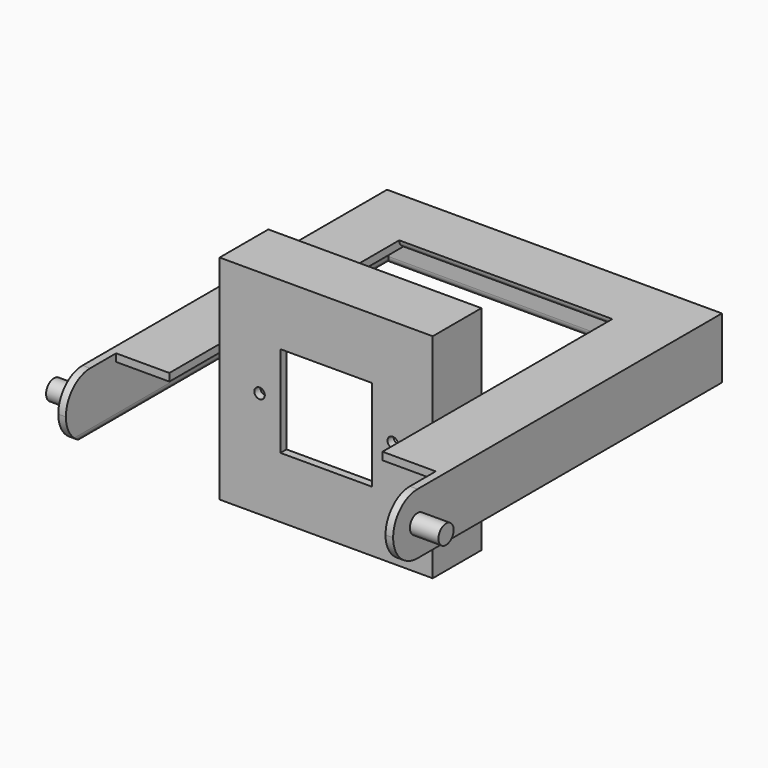
from build123d import *

# Parameters (mm, degrees)
PAD_DEPTH         = 112
PAD001_DEPTH      = 112
SKETCH002_R       = 2.75
SKETCH002_W       = 48
SKETCH002_H       = 48
POCKET_DEPTH      = 32.001
PAD002_DEPTH      = 66
PAD002_DEPTH_BACK = 150
SKETCH004_W       = 28
SKETCH004_H       = 33
POCKET001_DEPTH   = 72.001
POCKET002_DEPTH   = 176.001
POCKET003_DEPTH   = 176.001
SKETCH007_R       = 5
PAD003_DEPTH      = 15
SKETCH008_R       = 5.25
PAD004_DEPTH      = 15
PAD005_DEPTH      = 176


with BuildPart() as part:
    # Sketch → Pad (new body)
    with BuildSketch(Plane.XY):
        with BuildLine():
            Line((-56, 32), (-56, 0))
            Line((56, 0), (-56, 0))
            Line((56, 32), (56, 0))
            ThreePointArc((56, 32), (53.171573, 30.828427), (52, 28))
            Line((52, 28), (52, 4))
            Line((52, 4), (-52, 4))
            Line((-52, 4), (-52, 28))
            ThreePointArc((-52, 28), (-53.171573, 30.828427), (-56, 32))
        make_face()
    extrude(amount=PAD_DEPTH)

    # Sketch001 (on Face8 of Pad) → Pad001 (join)
    with BuildSketch(Plane.YZ.offset(56)):
        with BuildLine():
            Line((0, 112), (32, 112))
            ThreePointArc((28, 108), (30.828427, 109.171573), (32, 112))
            Line((0, 108), (28, 108))
            Line((0, 108), (0, 112))
        make_face()
        with BuildLine():
            Line((0, 0), (32, 0))
            ThreePointArc((32, 0), (30.828427, 2.828427), (28, 4))
            Line((0, 4), (28, 4))
            Line((0, 0), (0, 4))
        make_face()
    extrude(amount=-PAD001_DEPTH)

    # Sketch002 (on Face13 of Pad001) → Pocket (cut, through all)
    with BuildSketch(Plane.XZ):
        with Locations((-35, 56)):
            Circle(SKETCH002_R)
        with Locations((35, 56)):
            Circle(SKETCH002_R)
        with Locations((0, 56)):
            Rectangle(SKETCH002_W, SKETCH002_H)
    extrude(amount=-POCKET_DEPTH, mode=Mode.SUBTRACT)

    # Sketch003 (on Face13 of Pocket) → Pad002 (join, two sides)
    with BuildSketch(Plane.XZ) as pad002_sk:
        with BuildLine():
            Line((56, 72), (56, 68))
            Line((56, 68), (84, 68))
            Line((84, 68), (84, 44))
            ThreePointArc((84, 44), (85.171573, 41.171573), (88, 40))
            Line((88, 72), (88, 40))
            Line((56, 72), (88, 72))
        make_face()
        with BuildLine():
            Line((-56, 72), (-56, 68))
            Line((-56, 68), (-84, 68))
            Line((-84, 68), (-84, 44))
            ThreePointArc((-88, 40), (-85.171573, 41.171573), (-84, 44))
            Line((-88, 72), (-88, 40))
            Line((-56, 72), (-88, 72))
        make_face()
    extrude(amount=PAD002_DEPTH)
    extrude(pad002_sk.sketch, amount=-PAD002_DEPTH_BACK)

    # Sketch004 (on Face18 of Pad002) → Pocket001 (cut, through all)
    with BuildSketch(Plane.XY.offset(72)):
        with Locations((70, -49.5)):
            Rectangle(SKETCH004_W, SKETCH004_H)
        with Locations((-70, -49.5)):
            Rectangle(SKETCH004_W, SKETCH004_H)
    extrude(amount=-POCKET001_DEPTH, mode=Mode.SUBTRACT)

    # Sketch005 (on Face39 of Pocket001) → Pocket002 (cut, through all)
    with BuildSketch(Plane.YZ.offset(88)):
        with BuildLine():
            Line((-66, 72), (-50, 72))
            ThreePointArc((-50, 72), (-61.313708, 67.313708), (-66, 56))
            Line((-66, 72), (-66, 56))
        make_face()
    extrude(amount=-POCKET002_DEPTH, mode=Mode.SUBTRACT)

    # Sketch006 (on Face39 of Pocket002) → Pocket003 (cut, through all)
    with BuildSketch(Plane.YZ.offset(88)):
        with BuildLine():
            Line((-50, 40), (-66, 40))
            Line((-66, 40), (-66, 56))
            ThreePointArc((-66, 56), (-61.313708, 44.686292), (-50, 40))
        make_face()
    extrude(amount=-POCKET003_DEPTH, mode=Mode.SUBTRACT)

    # Sketch007 (on Face39 of Pocket003) → Pad003 (join)
    with BuildSketch(Plane.YZ.offset(88)):
        with Locations((-50, 56)):
            Circle(SKETCH007_R)
    extrude(amount=PAD003_DEPTH)

    # Sketch008 (on Face53 of Pad003) → Pad004 (join)
    with BuildSketch(Plane(origin=(-88, 0, 0), x_dir=(0, -1, 0), z_dir=(-1, 0, 0))):
        with Locations((50, 56)):
            Circle(SKETCH008_R)
    extrude(amount=PAD004_DEPTH)

    # Sketch009 (on Face39 of Pad004) → Pad005 (join)
    with BuildSketch(Plane.YZ.offset(88)):
        with BuildLine():
            Line((150, 40), (150, 72))
            Line((150, 72), (118, 72))
            ThreePointArc((118, 72), (119.171573, 69.171573), (122, 68))
            Line((146, 68), (122, 68))
            Line((146, 68), (146, 44))
            ThreePointArc((146, 44), (147.171573, 41.171573), (150, 40))
        make_face()
    extrude(amount=-PAD005_DEPTH)


solid = part.part
